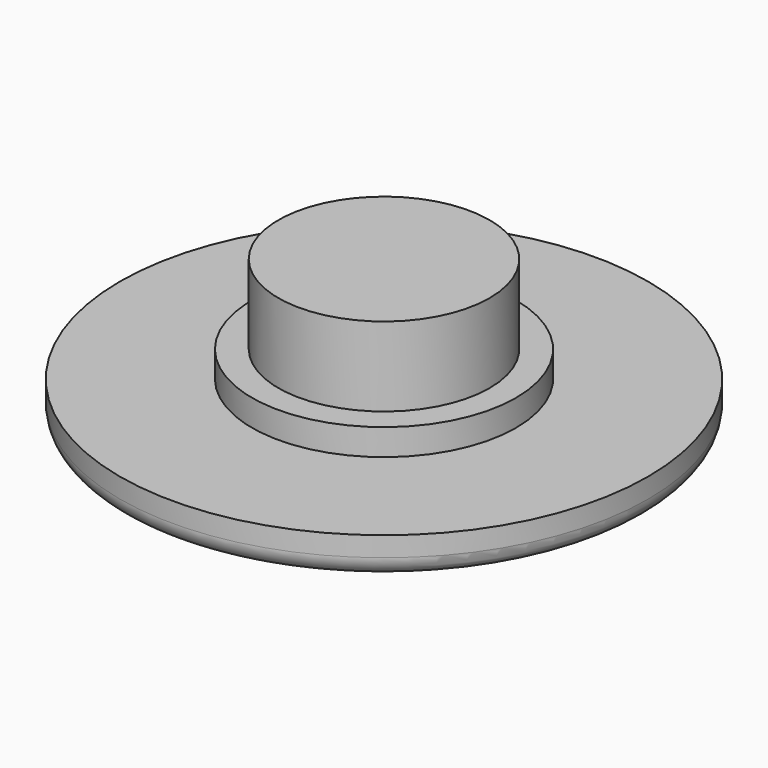
from build123d import *

# Parameters (mm, degrees)
F0_R     = 10
F1_DEPTH = 1.5
F2_R     = 5
F3_DEPTH = 1
F4_R     = 4
F5_DEPTH = 3
F6_R     = 0.75


with BuildPart() as f1:
    # F0 (on Top) → F1 (new body)
    with BuildSketch(Plane.XY):
        Circle(F0_R)
    extrude(amount=F1_DEPTH)

    # F2 (on face) → F3 (join)
    with BuildSketch(Plane.XY.offset(1.5)):
        Circle(F2_R)
    extrude(amount=F3_DEPTH)

    # F4 (on face) → F5 (join)
    with BuildSketch(Plane.XY.offset(2.5)):
        Circle(F4_R)
    extrude(amount=F5_DEPTH)

    # F6
    f6_edges = [f1.edges().sort_by_distance(p)[0] for p in [
        (-10, 0, 0),
    ]]
    fillet(f6_edges, radius=F6_R)


solid = f1.part
